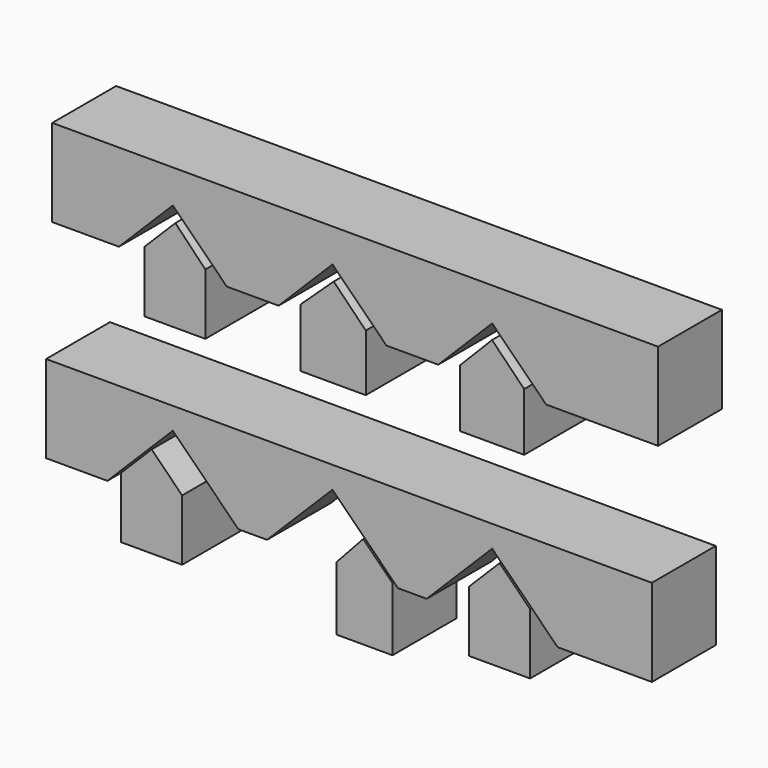
from build123d import *

# Parameters (mm, degrees)
F1_DEPTH = 25.4


with BuildPart() as f1:
    # F0 (on Front) → F1 (new body)
    with BuildSketch(Plane.XZ):
        Polygon((96.465796, 37.963953), (-96.287981, 37.963953), (-96.287981, 10.175207), (-75.067323, 10.175207), (-57.915278, 27.327253), (-40.763232, 10.175207), (-24.267323, 10.175207), (-7.115278, 27.327253), (10.036768, 10.175207), (26.532677, 10.175207), (43.684722, 27.327253), (60.836768, 10.175207), (96.465796, 10.175207), align=None)
        Polygon((94.50336, -28.81125), (-98.250417, -28.81125), (-98.250417, -56.599996), (-78.746646, -56.599996), (-57.915278, -35.768627), (-37.083909, -56.599996), (-27.946646, -56.599996), (-7.115278, -35.768627), (13.716091, -56.599996), (22.853354, -56.599996), (43.684722, -35.768627), (64.516091, -56.599996), (94.50336, -56.599996), align=None)
        Polygon((-47.574739, 12.7495), (-57.109257, 22.648286), (-67.014301, 12.743242), (-67.014301, -6.690067), (-47.574739, -6.690067), align=None)
        Polygon((3.46705, 12.240754), (-6.738686, 22.648286), (-17.341909, 12.7495), (-17.341909, -5.867225), (3.46705, -5.867225), align=None)
        Polygon((53.86335, 12.240754), (43.643957, 22.648286), (33.424818, 12.240754), (33.424818, -6.187332), (53.86335, -6.187332), align=None)
        Polygon((-54.956254, -52.94008), (-64.672909, -43.223425), (-74.389563, -52.94008), (-74.389563, -72.373389), (-54.956254, -72.373389), align=None)
        Polygon((11.968792, -55.738505), (2.647199, -46.416912), (-5.920832, -55.738505), (-5.920832, -75.961936), (11.968792, -75.961936), align=None)
        Polygon((55.763351, -48.792178), (46.046697, -39.075523), (36.330042, -48.792178), (36.330042, -68.225486), (55.763351, -68.225486), align=None)
    extrude(amount=F1_DEPTH)


solid = f1.part
